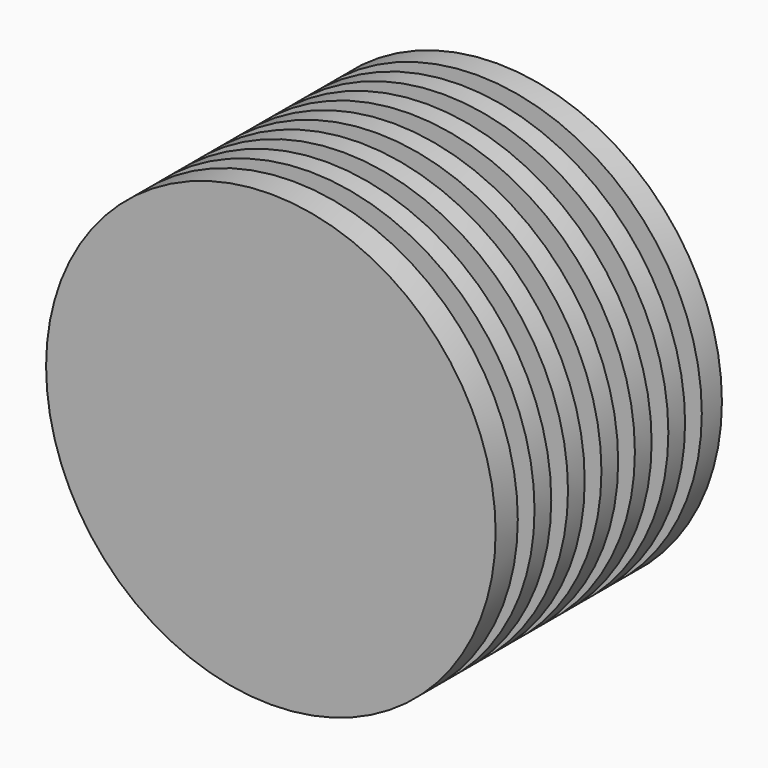
from build123d import *

# Parameters (mm, degrees)
F0_R     = 322.5
F1_DEPTH = 405.819
F2_W     = 30
F2_H     = 56.153832


with BuildPart() as f1:
    # F0 (on Front) → F1 (new body)
    with BuildSketch(Plane.XZ):
        Circle(F0_R)
    extrude(amount=F1_DEPTH)

    # F2 (on Right) → F3 (revolve, cut)
    with BuildSketch(Plane.YZ):
        with Locations((-351.066351, 312.436864)):
            Rectangle(F2_W, F2_H)
        with Locations((-291.066351, 312.436864)):
            Rectangle(F2_W, F2_H)
        with Locations((-231.066351, 312.436864)):
            Rectangle(F2_W, F2_H)
        with Locations((-171.066351, 312.436864)):
            Rectangle(F2_W, F2_H)
        with Locations((-111.066351, 312.436864)):
            Rectangle(F2_W, F2_H)
        with Locations((-51.066351, 312.436864)):
            Rectangle(F2_W, F2_H)
    revolve(axis=Axis((0, -241.306737, 0), (0, -1, 0)), mode=Mode.SUBTRACT)


solid = f1.part
